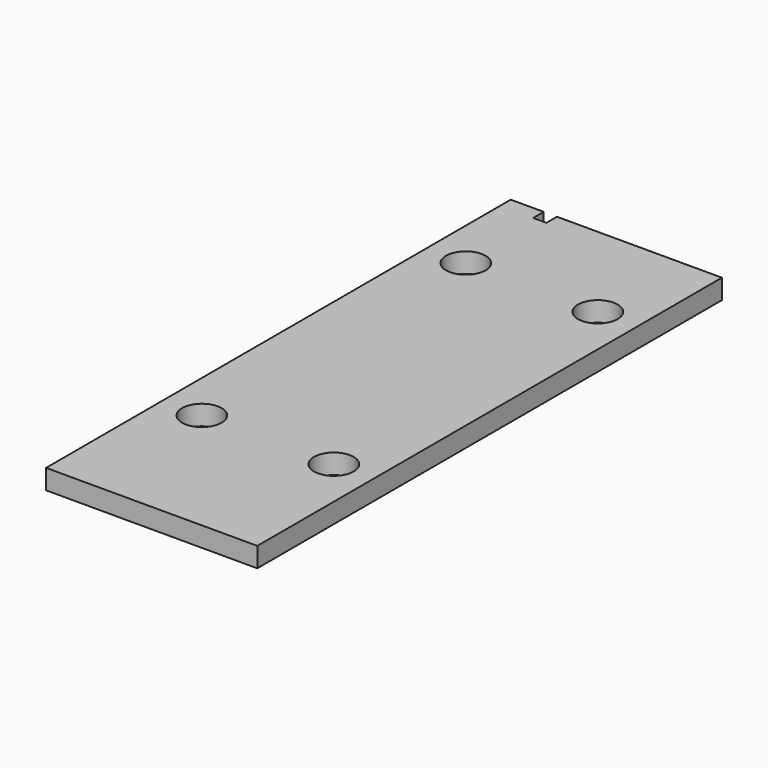
from build123d import *

# Parameters (mm, degrees)
F0_W     = 203.2
F0_H     = 19.05
F1_DEPTH = 558.8
F2_R     = 19.05
F2_W     = 12.7
F2_H     = 12.7
F3_DEPTH = 25.4


with BuildPart() as f1:
    # F0 (on Front) → F1 (new body)
    with BuildSketch(Plane.XZ):
        Rectangle(F0_W, F0_H)
    extrude(amount=F1_DEPTH)

    # F2 (on face) → F3 (cut)
    with BuildSketch(Plane.XY.offset(9.525)):
        with Locations((-63.5, -101.6)):
            Circle(F2_R)
        with Locations((63.5, -101.6)):
            Circle(F2_R)
        with Locations((-63.5, -419.1)):
            Circle(F2_R)
        with Locations((63.5, -419.1)):
            Circle(F2_R)
        with Locations((-63.5, -6.35)):
            Rectangle(F2_W, F2_H)
    extrude(amount=-F3_DEPTH, mode=Mode.SUBTRACT)


solid = f1.part
